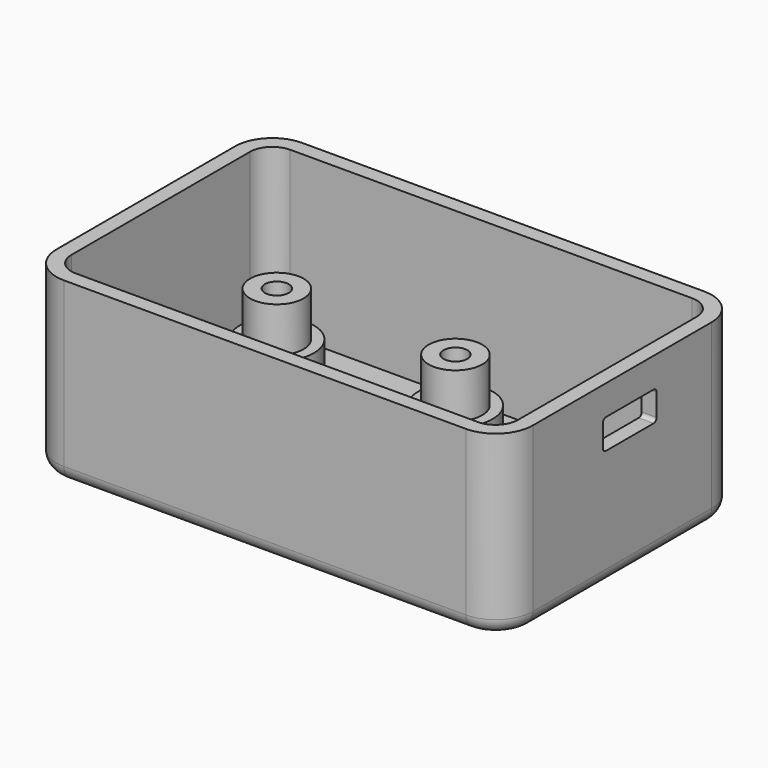
from build123d import *

# Parameters (mm, degrees)
PAD_DEPTH       = 22
THICKNESS_T     = 2
SKETCH001_R     = 5
PAD001_DEPTH    = 3
SKETCH002_R     = 3.6
PAD002_DEPTH    = 6
SKETCH003_R     = 3.6
PAD003_DEPTH    = 6
SKETCH004_R     = 3.6
PAD004_DEPTH    = 6
SKETCH005_R     = 3.6
PAD005_DEPTH    = 6
SKETCH006_R     = 1.6
POCKET_DEPTH    = 11
SKETCH007_R     = 1.6
POCKET001_DEPTH = 11
SKETCH008_R     = 1.6
POCKET002_DEPTH = 11
SKETCH009_R     = 1.6
POCKET003_DEPTH = 11
SKETCH010_R     = 3
POCKET004_DEPTH = 3
POCKET005_DEPTH = 2


with BuildPart() as part:
    # Sketch → Pad (new body)
    with BuildSketch(Plane.XY):
        with BuildLine():
            Line((0, 33), (54, 33))
            ThreePointArc((57, 30), (56.12132, 32.12132), (54, 33))
            Line((57, 30), (57, 0))
            ThreePointArc((54, -3), (56.12132, -2.12132), (57, 0))
            Line((54, -3), (0, -3))
            ThreePointArc((-3, 0), (-2.12132, -2.12132), (0, -3))
            Line((-3, 0), (-3, 30))
            ThreePointArc((0, 33), (-2.12132, 32.12132), (-3, 30))
        make_face()
    extrude(amount=PAD_DEPTH)

    # Thickness
    thickness_openings = [part.faces().sort_by_distance(p)[0] for p in [
        (27, 15, 22),
    ]]
    offset(amount=THICKNESS_T, openings=thickness_openings)

    # Sketch001 → Pad001 (new body)
    with BuildSketch(Plane.XY):
        with Locations((3, 27)):
            Circle(SKETCH001_R)
        with Locations((3, 3)):
            Circle(SKETCH001_R)
        with Locations((27, 27)):
            Circle(SKETCH001_R)
        with Locations((27, 3)):
            Circle(SKETCH001_R)
    extrude(amount=PAD001_DEPTH)

    # Sketch002 → Pad002 (new body)
    with BuildSketch(Plane.XY.offset(3)):
        with Locations((27, 27)):
            Circle(SKETCH002_R)
    extrude(amount=PAD002_DEPTH)

    # Sketch003 → Pad003 (new body)
    with BuildSketch(Plane.XY.offset(3)):
        with Locations((27, 3)):
            Circle(SKETCH003_R)
    extrude(amount=PAD003_DEPTH)

    # Sketch004 → Pad004 (new body)
    with BuildSketch(Plane.XY.offset(3)):
        with Locations((3, 27)):
            Circle(SKETCH004_R)
    extrude(amount=PAD004_DEPTH)

    # Sketch005 → Pad005 (new body)
    with BuildSketch(Plane.XY.offset(3)):
        with Locations((3, 3)):
            Circle(SKETCH005_R)
    extrude(amount=PAD005_DEPTH)

    # Sketch006 → Pocket (cut)
    with BuildSketch(Plane.XY.offset(9)):
        with Locations((27, 27)):
            Circle(SKETCH006_R)
    extrude(amount=-POCKET_DEPTH, mode=Mode.SUBTRACT)

    # Sketch007 → Pocket001 (cut)
    with BuildSketch(Plane.XY.offset(9)):
        with Locations((27, 3)):
            Circle(SKETCH007_R)
    extrude(amount=-POCKET001_DEPTH, mode=Mode.SUBTRACT)

    # Sketch008 → Pocket002 (cut)
    with BuildSketch(Plane.XY.offset(9)):
        with Locations((3, 27)):
            Circle(SKETCH008_R)
    extrude(amount=-POCKET002_DEPTH, mode=Mode.SUBTRACT)

    # Sketch009 → Pocket003 (cut)
    with BuildSketch(Plane.XY.offset(9)):
        with Locations((3, 3)):
            Circle(SKETCH009_R)
    extrude(amount=-POCKET003_DEPTH, mode=Mode.SUBTRACT)

    # Sketch010 → Pocket004 (cut)
    with BuildSketch(Plane(origin=(0, 0, -2), x_dir=(1, 0, 0), z_dir=(0, 0, -1))):
        with Locations((27, -3)):
            Circle(SKETCH010_R)
        with Locations((27, -27)):
            Circle(SKETCH010_R)
        with Locations((3, -3)):
            Circle(SKETCH010_R)
        with Locations((3, -27)):
            Circle(SKETCH010_R)
    extrude(amount=-POCKET004_DEPTH, mode=Mode.SUBTRACT)

    # Sketch011 → Pocket005 (cut)
    with BuildSketch(Plane.YZ.offset(59)):
        with BuildLine():
            Line((12.27, 18), (20.27, 18))
            ThreePointArc((20.77, 17.5), (20.623553, 17.853553), (20.27, 18))
            Line((20.77, 17.5), (20.77, 14.5))
            ThreePointArc((20.27, 14), (20.623553, 14.146447), (20.77, 14.5))
            Line((20.27, 14), (12.27, 14))
            ThreePointArc((11.77, 14.5), (11.916447, 14.146447), (12.27, 14))
            Line((11.77, 14.5), (11.77, 17.5))
            ThreePointArc((12.27, 18), (11.916447, 17.853553), (11.77, 17.5))
        make_face()
    extrude(amount=-POCKET005_DEPTH, mode=Mode.SUBTRACT)


solid = part.part
